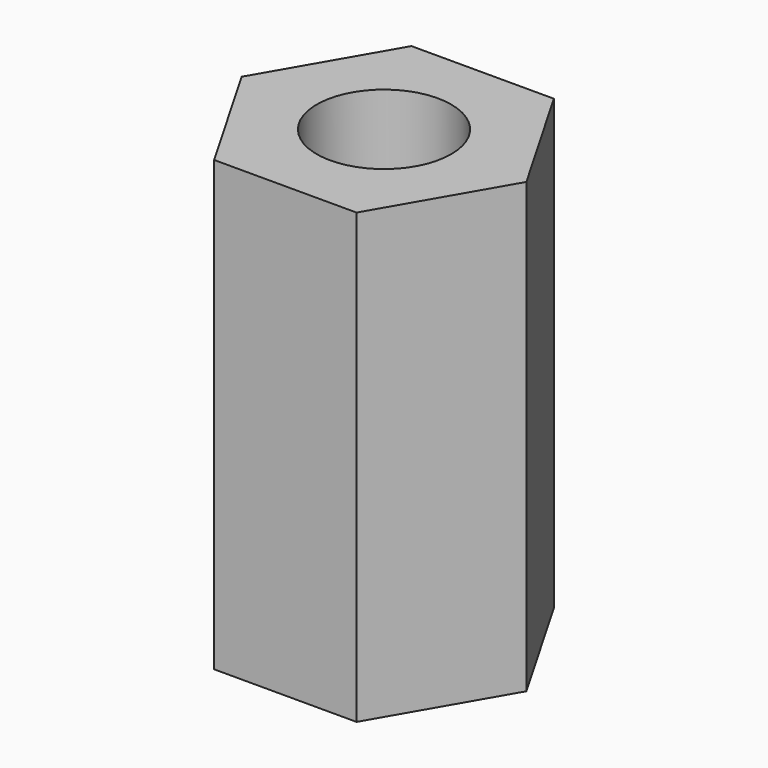
from build123d import *

# Parameters (mm, degrees)
PAD_DEPTH    = 10
SKETCH002_R  = 1.5
POCKET_DEPTH = 10


with BuildPart() as part:
    # Sketch → Pad (new body)
    with BuildSketch(Plane.XY):
        Polygon((1.587713, -2.75), (3.175426, 0), (1.587713, 2.75), (-1.587713, 2.75), (-3.175426, 0), (-1.587713, -2.75), align=None)
    extrude(amount=PAD_DEPTH)

    # Sketch002 → Pocket (cut)
    with BuildSketch(Plane(origin=(0, 0, 0), x_dir=(1, 0, 0), z_dir=(0, 0, -1))):
        Circle(SKETCH002_R)
    extrude(amount=-POCKET_DEPTH, mode=Mode.SUBTRACT)


solid = part.part
